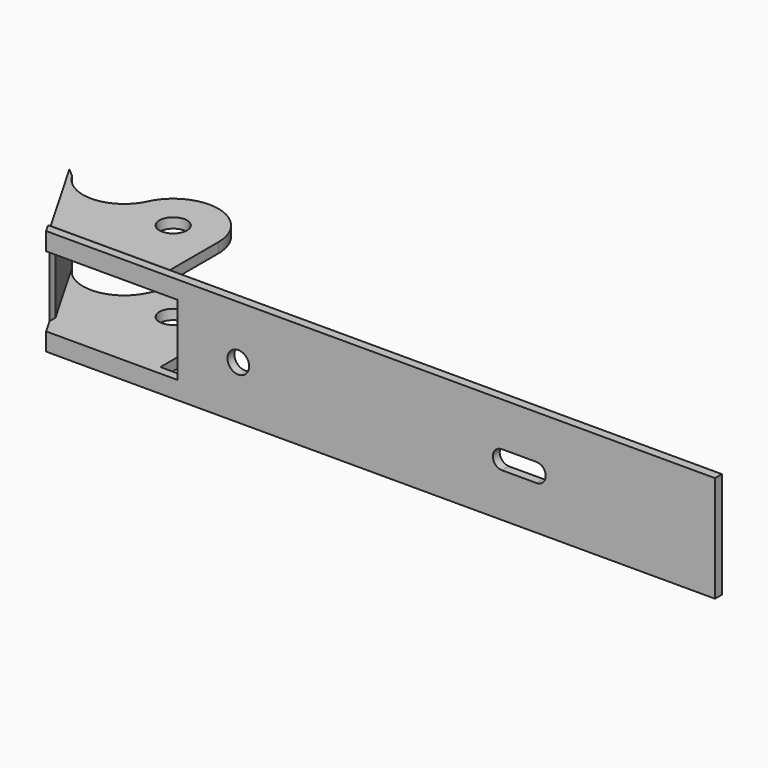
from build123d import *

# Parameters (mm, degrees)
SKETCH019_W          = 124
SKETCH019_H          = 24.5
SKETCH019_R          = 2.5
PAD010_DEPTH         = 2
SKETCH018_R          = 3.175
PAD011_DEPTH         = 4.1125
PAD012_DEPTH         = 12.25
POCKET005_DEPTH      = 373.382623
POCKET005_DEPTH_BACK = 485.092667
SKETCH022_W          = 3
SKETCH022_H          = 16.275
POCKET006_DEPTH      = 14.161
POCKET006_DEPTH_BACK = 15.001


with BuildPart() as part:
    # Sketch019 → Pad010 (new body)
    with BuildSketch(Plane.XZ.offset(13)):
        with Locations((78, 0)):
            Rectangle(SKETCH019_W, SKETCH019_H)
        with Locations((30, 0)):
            Circle(SKETCH019_R, mode=Mode.SUBTRACT)
        with BuildLine():
            ThreePointArc((90.8685, 2.143), (88.7255, 0), (90.8685, -2.143))
            Line((90.8685, -2.143), (98.806, -2.143))
            ThreePointArc((98.806, -2.143), (100.949, 0), (98.806, 2.143))
            Line((98.806, 2.143), (90.8685, 2.143))
        make_face(mode=Mode.SUBTRACT)
    extrude(amount=PAD010_DEPTH)

    # Sketch018 → Pad011 (join)
    with BuildSketch(Plane.XY.offset(12.25)):
        with BuildLine():
            Line((16, -13), (10.43, -13))
            Line((10.43, -13), (10.43, 3.73))
            ThreePointArc((10.43, 3.73), (2.257465, 13.912767), (-9.45279, 8.137908))
            ThreePointArc((-26.289956, 7.402782), (-17.64833, 2.661824), (-9.45279, 8.137908))
            Line((-26.289956, 7.402782), (-13.355703, -15))
            Line((-13.355703, -15), (16, -15))
            Line((16, -15), (16, -13))
        make_face()
        with Locations((0, 3.73)):
            Circle(SKETCH018_R, mode=Mode.SUBTRACT)
    pad011 = extrude(amount=-PAD011_DEPTH)

    # Mirrored003: Pad011 across XY
    add(pad011.mirror(Plane.XY))

    # Sketch020 → Pad012 (join, symmetric)
    with BuildSketch(Plane.XY):
        Polygon((-26.289956, 7.402782), (-28.289956, 9.134833), (-14.355703, -15), (-13.355703, -15), align=None)
    extrude(amount=PAD012_DEPTH, both=True)

    # Sketch021 → Pocket005 (cut, two sides)
    with BuildSketch(Plane.YZ) as pocket005_sk:
        with BuildLine():
            ThreePointArc((-13, 12.25), (-11.749286, 10.934524), (-10, 10.45))
            Line((-10, 10.45), (14.16, 10.45))
            Line((14.16, 12.25), (14.16, 10.45))
            Line((14.16, 12.25), (-13, 12.25))
        make_face()
    pocket005 = extrude(amount=-POCKET005_DEPTH, mode=Mode.SUBTRACT) + extrude(pocket005_sk.sketch, amount=POCKET005_DEPTH_BACK, mode=Mode.SUBTRACT)

    # Mirrored004: Pocket005 across Sketch021 H_Axis
    add(pocket005.mirror(Plane.XY), mode=Mode.SUBTRACT)

    # Sketch022 → Pocket006 (cut, two sides)
    with BuildSketch(Plane.XZ) as pocket006_sk:
        with Locations((-14.855703, 0)):
            Rectangle(SKETCH022_W, SKETCH022_H)
    extrude(amount=-POCKET006_DEPTH, mode=Mode.SUBTRACT)
    extrude(pocket006_sk.sketch, amount=POCKET006_DEPTH_BACK, mode=Mode.SUBTRACT)


solid = part.part
